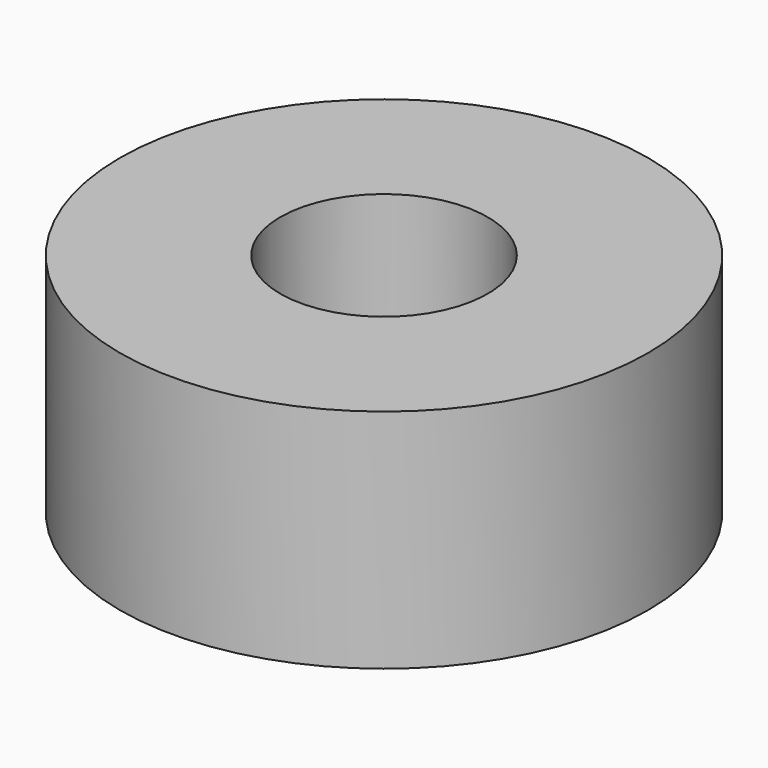
from build123d import *

# Parameters (mm, degrees)
F0_R     = 3.5
F1_DEPTH = 3
F3_D     = 2.75
F3_DEPTH = 30


with BuildPart() as f1:
    # F0 (on Top) → F1 (new body)
    with BuildSketch(Plane.XY):
        Circle(F0_R)
    extrude(amount=F1_DEPTH)

    # F3
    with Locations(Plane(origin=(0, 0, 0), x_dir=(1, 0, 0), z_dir=(0, 0, -1))):
        with Locations((0, 0)):
            Hole(F3_D / 2, depth=F3_DEPTH)


solid = f1.part
